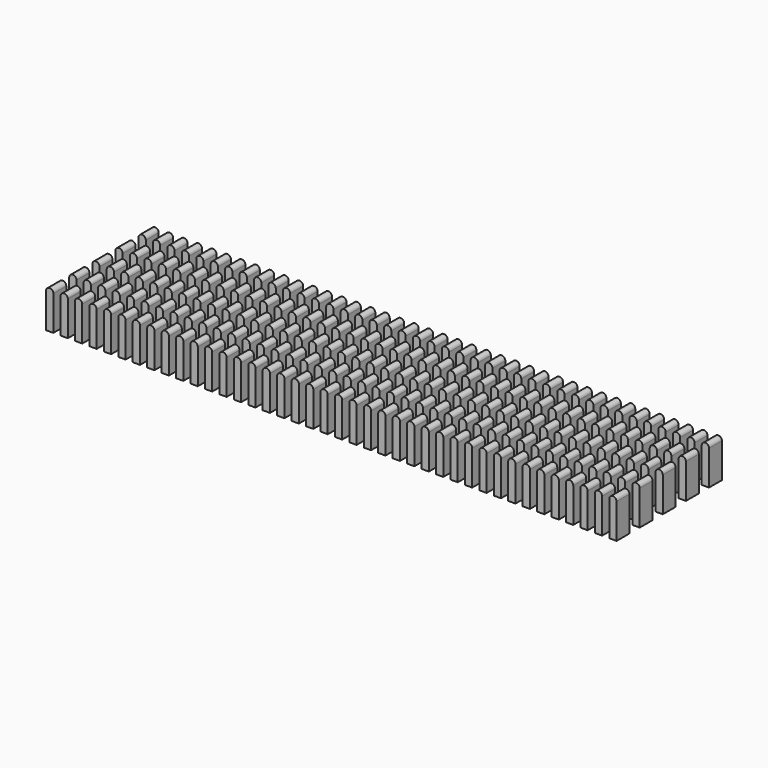
from build123d import *

# Parameters (mm, degrees)
PAD005_DEPTH     = 1.42
ARRAY001_X_COUNT = 40
ARRAY001_X_PITCH = 1.27
ARRAY001_Y_COUNT = 5
ARRAY001_Y_PITCH = 2.54


with BuildPart() as part:
    # Sketch007 → Pad005 (new body)
    with BuildSketch(Plane.XZ.offset(-1.55)):
        with BuildLine():
            Line((2.805, 4.35), (2.805, 1.3))
            Line((2.805, 1.3), (3.445, 1.3))
            Line((3.445, 1.3), (3.445, 4.35))
            ThreePointArc((3.445, 4.35), (3.125, 4.67), (2.805, 4.35))
        make_face()
    extrude(amount=-PAD005_DEPTH)

    # Array001 X: part ×40


with BuildPart() as part_1:
    add(part.part)
    with Locations(*[(i * ARRAY001_X_PITCH, 0, 0) for i in range(1, ARRAY001_X_COUNT)]):
        add(part.part)

    # Array001 Y: part ×5


with BuildPart() as part_2:
    add(part_1.part)
    with Locations(*[(0, i * ARRAY001_Y_PITCH, 0) for i in range(1, ARRAY001_Y_COUNT)]):
        add(part_1.part)


solid = part_2.part
